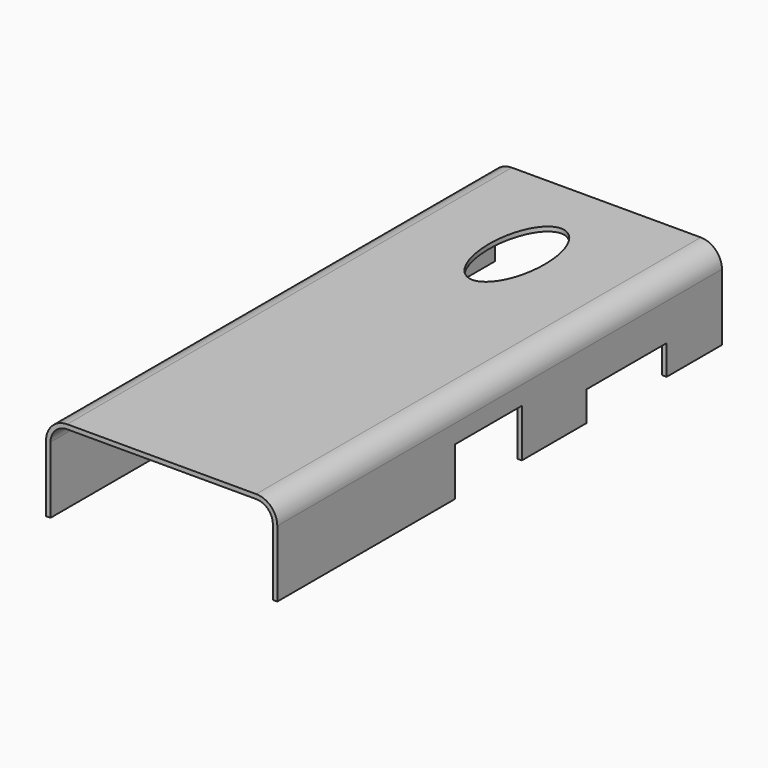
from build123d import *

# Parameters (mm, degrees)
F1_DEPTH = 100
F3_W     = 15
F3_H     = 8.658207
F3_W_2   = 18
F3_H_2   = 5.351609
F4_DEPTH = 41.601
F5_DEPTH = 15.801


with BuildPart() as f1:
    # F0 (on Front) → F1 (new body)
    with BuildSketch(Plane.XZ):
        with BuildLine():
            Line((-20.8, 0), (-20, 0))
            Line((-20, 0), (-20, 12))
            ThreePointArc((-20, 12), (-19.12132, 14.12132), (-17, 15))
            Line((-17, 15), (0, 15))
            Line((0, 15), (17, 15))
            ThreePointArc((17, 15), (19.12132, 14.12132), (20, 12))
            Line((20, 12), (20, 0))
            Line((20, 0), (20.8, 0))
            Line((20.8, 0), (20.8, 12))
            ThreePointArc((20.8, 12), (19.687006, 14.687006), (17, 15.8))
            Line((17, 15.8), (2.5, 15.8))
            Line((2.5, 15.8), (-2.5, 15.8))
            Line((-2.5, 15.8), (-17, 15.8))
            ThreePointArc((-17, 15.8), (-19.687006, 14.687006), (-20.8, 12))
            Line((-20.8, 12), (-20.8, 0))
        make_face()
    extrude(amount=F1_DEPTH)

    # F3 (on face) → F4 (cut, through all)
    with BuildSketch(Plane.YZ.offset(20.8)):
        with Locations((-52.5, 4.329103)):
            Rectangle(F3_W, F3_H)
        with Locations((-21.423438, 2.675804)):
            Rectangle(F3_W_2, F3_H_2)
    extrude(amount=-F4_DEPTH, mode=Mode.SUBTRACT)

    # F2 (on face) → F5 (cut, through all)
    with BuildSketch(Plane.XY.offset(15.8)):
        with BuildLine():
            add(Edge.make_bspline(
                [(0, -30.120598), (8.660254, -30.120598), (4.330127, -15.120598), (0, -0.120598), (-4.330127, -15.120598), (-8.660254, -30.120598), (0, -30.120598)],
                knots=[0, 0, 0, 2.094395, 2.094395, 4.18879, 4.18879, 6.283185, 6.283185, 6.283185], degree=2, weights=[1, 0.5, 1, 0.5, 1, 0.5, 1]))
        make_face()
    extrude(amount=-F5_DEPTH, mode=Mode.SUBTRACT)


solid = f1.part
